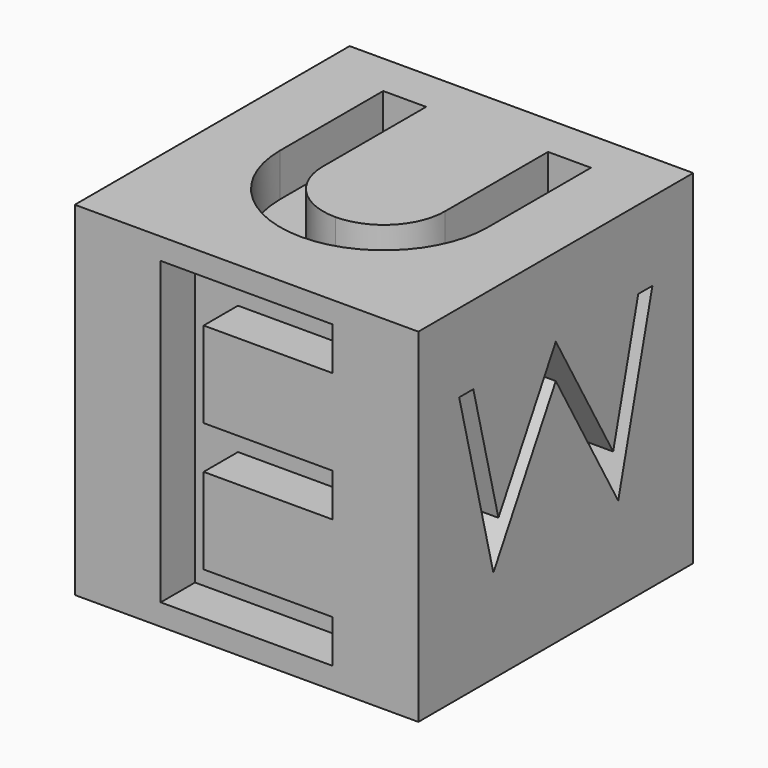
from build123d import *

# Parameters (mm, degrees)
F0_W      = 25.4
F0_H      = 25.4
F1_DEPTH  = 25.4
F2_R      = 9.525
F2_R_2    = 6.985
F3_DEPTH  = 3.175
F5_DEPTH  = 3.175
F7_DEPTH  = 3.175
F9_DEPTH  = 3.175
F11_DEPTH = 3.175
F13_DEPTH = 3.175


with BuildPart() as f1:
    # F0 (on Top) → F1 (new body)
    with BuildSketch(Plane.XY):
        Rectangle(F0_W, F0_H)
    extrude(amount=F1_DEPTH)

    # F2 (on face) → F3 (cut)
    with BuildSketch(Plane(origin=(-12.7, 0, 0), x_dir=(0, -1, 0), z_dir=(-1, 0, 0))):
        with Locations((0, 12.7)):
            Circle(F2_R)
        with Locations((0, 12.7)):
            Circle(F2_R_2, mode=Mode.SUBTRACT)
    extrude(amount=-F3_DEPTH, mode=Mode.SUBTRACT)

    # F4 (on face) → F5 (cut)
    with BuildSketch(Plane(origin=(0, 12.7, 0), x_dir=(-1, 0, 0), z_dir=(0, 1, 0))):
        Polygon((8.506033, 4.101141), (0, 22.612056), (-8.506033, 4.101141), (-5.504938, 4.101141), (-3.2258, 9.061024), (0, 9.061024), (3.2258, 9.061024), (5.504938, 4.101141), align=None)
        Polygon((-2.050918, 11.50054), (0, 15.963769), (2.050918, 11.50054), (0, 11.50054), align=None, mode=Mode.SUBTRACT)
    extrude(amount=-F5_DEPTH, mode=Mode.SUBTRACT)

    # F6 (on face) → F7 (cut)
    with BuildSketch(Plane.YZ.offset(12.7)):
        Polygon((-7.62, 19.591412), (-8.928736, 19.591412), (-5.768185, 6.891412), (0, 17.024274), (5.768185, 6.891412), (8.928736, 19.591412), (7.62, 19.591412), (5.30208, 10.277347), (0, 19.591412), (-5.30208, 10.277347), align=None)
    extrude(amount=-F7_DEPTH, mode=Mode.SUBTRACT)

    # F8 (on face) → F9 (cut)
    with BuildSketch(Plane.XZ.offset(12.7)):
        Polygon((6.35, 23.8125), (-6.35, 23.8125), (-6.35, 1.5875), (6.35, 1.5875), (6.35, 4.7625), (-3.175, 4.7625), (-3.175, 11.1125), (6.35, 11.1125), (6.35, 14.2875), (-3.175, 14.2875), (-3.175, 20.6375), (6.35, 20.6375), align=None)
    extrude(amount=-F9_DEPTH, mode=Mode.SUBTRACT)

    # F10 (on face) → F11 (cut)
    with BuildSketch(Plane.XY.offset(25.4)):
        with BuildLine():
            Line((-4.504769, 9.525), (-7.679769, 9.525))
            Line((-7.679769, 9.525), (-7.679769, 0))
            ThreePointArc((-7.679769, 0), (-5.430417, -5.430417), (0, -7.679769))
            ThreePointArc((0, -7.679769), (5.430417, -5.430417), (7.679769, 0))
            Line((7.679769, 0), (7.679769, 9.525))
            Line((7.679769, 9.525), (4.504769, 9.525))
            Line((4.504769, 9.525), (4.504769, 0))
            ThreePointArc((4.504769, 0), (3.185353, -3.185353), (0, -4.504769))
            ThreePointArc((0, -4.504769), (-3.185353, -3.185353), (-4.504769, 0))
            Line((-4.504769, 0), (-4.504769, 9.525))
        make_face()
    extrude(amount=-F11_DEPTH, mode=Mode.SUBTRACT)

    # F12 (on face) → F13 (cut)
    with BuildSketch(Plane(origin=(0, 0, 0), x_dir=(1, 0, 0), z_dir=(0, 0, -1))):
        Polygon((-5.088263, 7.62), (-7.530533, 7.62), (-7.530533, -10.16), (-5.088263, -10.16), (-5.088263, -3.81), (5.910259, -10.16), (5.910259, -6.985), (-5.088263, -0.635), (5.910259, 5.715), (5.910259, 8.89), (-5.088263, 2.54), align=None)
    extrude(amount=-F13_DEPTH, mode=Mode.SUBTRACT)


solid = f1.part
